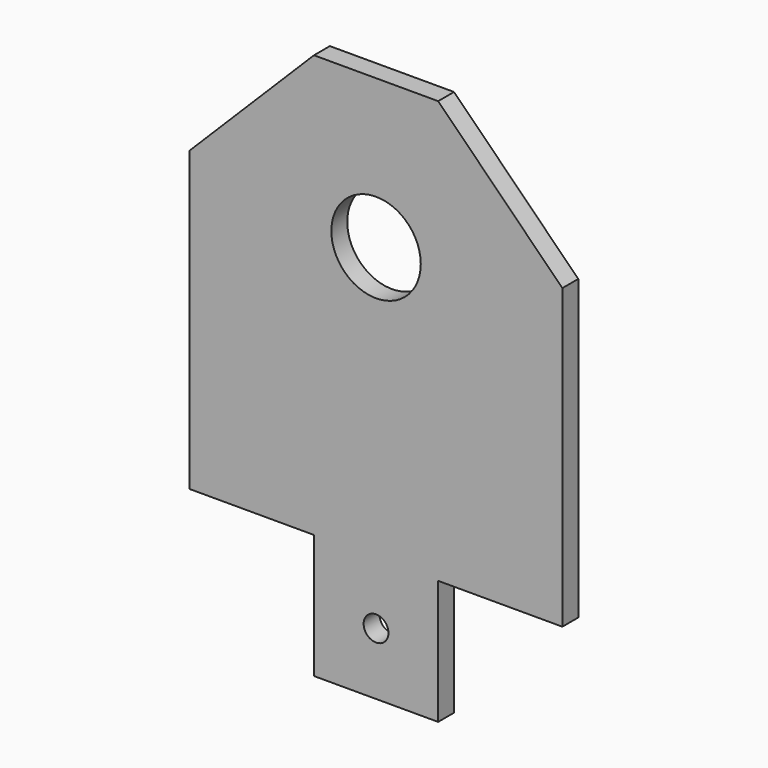
from build123d import *

# Parameters (mm, degrees)
SKETCH_R     = 5
PAD_DEPTH    = 8
SKETCH001_R  = 18
POCKET_DEPTH = 8.001


with BuildPart() as part:
    # Sketch → Pad (new body)
    with BuildSketch(Plane.XZ):
        Polygon((0, 0), (50, 0), (50, -50), (100, -50), (100, 0), (150, 0), (150, 120), (100, 170), (50, 170), (0, 120), align=None)
        with Locations((75, -25)):
            Circle(SKETCH_R, mode=Mode.SUBTRACT)
    extrude(amount=PAD_DEPTH)

    # Sketch001 → Pocket (cut, through all)
    with BuildSketch(Plane.XZ):
        with Locations((75, 110)):
            Circle(SKETCH001_R)
    extrude(amount=POCKET_DEPTH, mode=Mode.SUBTRACT)


solid = part.part
